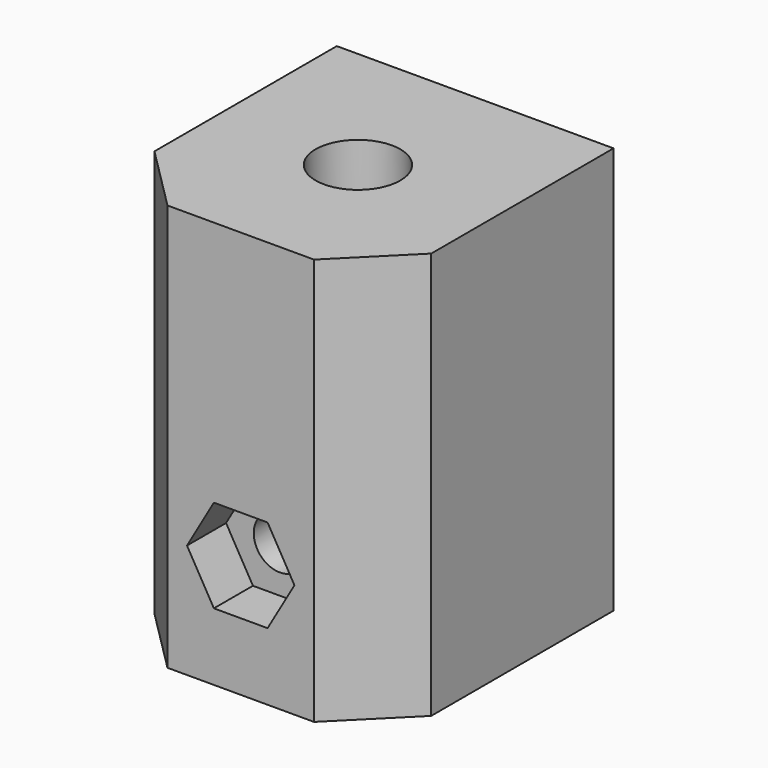
from build123d import *

# Parameters (mm, degrees)
F0_W      = 17
F0_H      = 25
F1_DEPTH  = 18
F2_W      = 14
F2_H      = 9
F3_DEPTH  = 22
F4_R      = 1.6
F5_DEPTH  = 25
F6_R      = 2.6
F7_DEPTH  = 25
F8_R      = 3.1
F9_DEPTH  = 3
F11_DEPTH = 3
F12_SIZE  = 4


with BuildPart() as f1:
    # F0 (on Front) → F1 (new body)
    with BuildSketch(Plane.XZ):
        Rectangle(F0_W, F0_H)
    extrude(amount=F1_DEPTH)

    # F2 (on face) → F3 (cut, through all)
    with BuildSketch(Plane(origin=(0, 0, -12.5), x_dir=(1, 0, 0), z_dir=(0, 0, -1))):
        with Locations((0, 9)):
            Rectangle(F2_W, F2_H)
    extrude(amount=-F3_DEPTH, mode=Mode.SUBTRACT)

    # F4 (on face) → F5 (cut)
    with BuildSketch(Plane.XZ.offset(18)):
        with Locations((0, -5.5)):
            Circle(F4_R)
    extrude(amount=-F5_DEPTH, mode=Mode.SUBTRACT)

    # F6 (on face) → F7 (cut)
    with BuildSketch(Plane.XY.offset(12.5)):
        with Locations((0, -9)):
            Circle(F6_R)
    extrude(amount=-F7_DEPTH, mode=Mode.SUBTRACT)

    # F8 (on face) → F9 (cut)
    with BuildSketch(Plane(origin=(0, 0, 0), x_dir=(-1, 0, 0), z_dir=(0, 1, 0))):
        with Locations((0, -5.5)):
            Circle(F8_R)
    extrude(amount=-F9_DEPTH, mode=Mode.SUBTRACT)

    # F10 (on face) → F11 (cut)
    with BuildSketch(Plane.XZ.offset(18)):
        Polygon((-1.65, -8.3578838325), (1.65, -8.3578838325), (3.3, -5.5), (1.65, -2.6421161675), (-1.65, -2.6421161675), (-3.3, -5.5), align=None)
    extrude(amount=-F11_DEPTH, mode=Mode.SUBTRACT)

    # F12
    f12_edges = [f1.edges().sort_by_distance(p)[0] for p in [
        (8.5, -18, 0),
        (-8.5, -18, 0),
    ]]
    chamfer(f12_edges, length=F12_SIZE)


solid = f1.part
